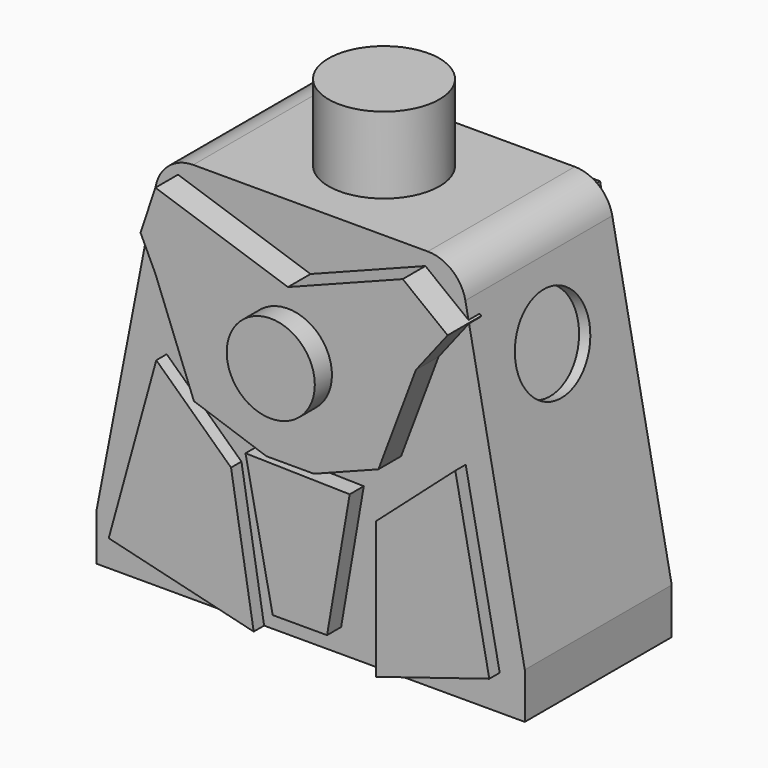
from build123d import *

# Parameters (mm, degrees)
F1_DEPTH  = 12
F3_R      = 7.25
F4_DEPTH  = 10
F5_T      = -1.5
F7_R      = 6
F8_DEPTH  = 25
F6_R      = 6
F9_DEPTH  = 25
F11_START = 10.2
F11_DEPTH = 5.5
F13_START = 9.6
F13_DEPTH = 4.7
F15_START = 9.6
F15_DEPTH = 4.1
F17_START = -9.3
F16_W     = 5.3289495409
F16_H     = 47.8125028312
F17_DEPTH = 5.1
F19_START = 13.2
F18_R     = 5.7578235011
F19_DEPTH = 5.3


with BuildPart() as f1:
    # F0 (on Front) → F1 (new body, symmetric)
    with BuildSketch(Plane.XZ):
        with BuildLine():
            Line((-28, 0), (0, 0))
            Line((0, 0), (0, 50))
            Line((0, 50), (-6.6666662588, 50))
            Line((-6.6666662588, 50), (-15.3255844689, 50))
            ThreePointArc((-15.3255844689, 50), (-18.5059755702, 48.8581229169), (-20.2337203861, 45.9540449769))
            Line((-20.2337203861, 45.9540449769), (-28, 6))
            Line((-28, 6), (-28, 0))
        make_face()
    extrude(amount=F1_DEPTH, both=True)

    # F2: F1 across plane


with BuildPart() as f1_1:
    add(f1.part)
    add(f1.part.mirror(Plane.YZ))

    # F3 (on face) → F4 (join)
    with BuildSketch(Plane.XY.offset(50)):
        Circle(F3_R)
    extrude(amount=F4_DEPTH)

    # F5
    f5_openings = [f1_1.faces().sort_by_distance(p)[0] for p in [
        (0, 0, 0),
    ]]
    offset(amount=F5_T, openings=f5_openings, kind=Kind.INTERSECTION)

    # F7 (on face) → F8 (cut)
    with BuildSketch(Plane(origin=(-28.1043937442, 0, 5.4629407441), x_dir=(0, -1, 0), z_dir=(-0.9816271834, 0, 0.1908089954))):
        with Locations((0, 32.1786838016)):
            Circle(F7_R)
    extrude(amount=-F8_DEPTH, mode=Mode.SUBTRACT)

    # F6 (on face) → F9 (cut)
    with BuildSketch(Plane(origin=(28.1043937442, 0, 5.4629407441), x_dir=(0, 1, 0), z_dir=(0.9816271834, 0, 0.1908089954))):
        with Locations((0, 31.8290144205)):
            Circle(F6_R)
    extrude(amount=-F9_DEPTH, mode=Mode.SUBTRACT)

    # F10 (on Front) → F11 (join)
    with BuildSketch(Plane.XZ.offset(F11_START)):
        Polygon((-19.2609551114, 42.4277079303), (-17.3190794885, 38.338817656), (-12.2861843556, 25.3125000745), (-2.8125005774, 22.0559220761), (0, 22.0559220761), (3.4046065994, 22.0559220761), (11.8333972091, 25.3125000745), (16.7269762605, 38.338817656), (20.8717118949, 43.6677634716), (15.0098685318, 48.2269749762), (0, 42.4277079303), (-17.3190794885, 48.2269749762), align=None)
    extrude(amount=F11_DEPTH)

    # F12 (on Front) → F13 (join)
    with BuildSketch(Plane.XZ.offset(F13_START)):
        Polygon((6.9572376087, 20.2796068043), (-6.6611841321, 20.5756574869), (-3.1085531227, 3.1085526571), (3.99671169, 3.1085526571), align=None)
    extrude(amount=F13_DEPTH)

    # F14 (on Front) → F15 (join)
    with BuildSketch(Plane.XZ.offset(F15_START)):
        Polygon((-9.0296063572, 17.9111845791), (-18.7993440777, 27.088817209), (-25.0164475292, 4.5888158493), (-6.0690785758, 0), align=None)
        Polygon((24.7203949839, 4.5888158493), (20.2796068043, 27.088817209), (9.9177630618, 17.9111845791), (9.9177630618, 0), align=None)
    extrude(amount=F15_DEPTH)

    # F16 (on Front) → F17 (join)
    with BuildSketch(Plane.XZ.offset(F17_START)):
        with Locations((0.148025807, 23.9062514156)):
            Rectangle(F16_W, F16_H)
        Polygon((24.1282898933, 3.1085526571), (16.7269743979, 47.8125028312), (6.3651311211, 47.8125028312), (6.3651311211, 3.1085526571), align=None)
        Polygon((-7.5493426993, 3.4046054352), (-7.253290154, 47.8125028312), (-17.6151338965, 47.8125028312), (-25.9046051651, 3.4046054352), align=None)
    extrude(amount=-F17_DEPTH)

    # F18 (on Front) → F19 (join)
    with BuildSketch(Plane.XZ.offset(F19_START)):
        with Locations((0, 34.1940820217)):
            Circle(F18_R)
    extrude(amount=F19_DEPTH)


solid = f1_1.part
